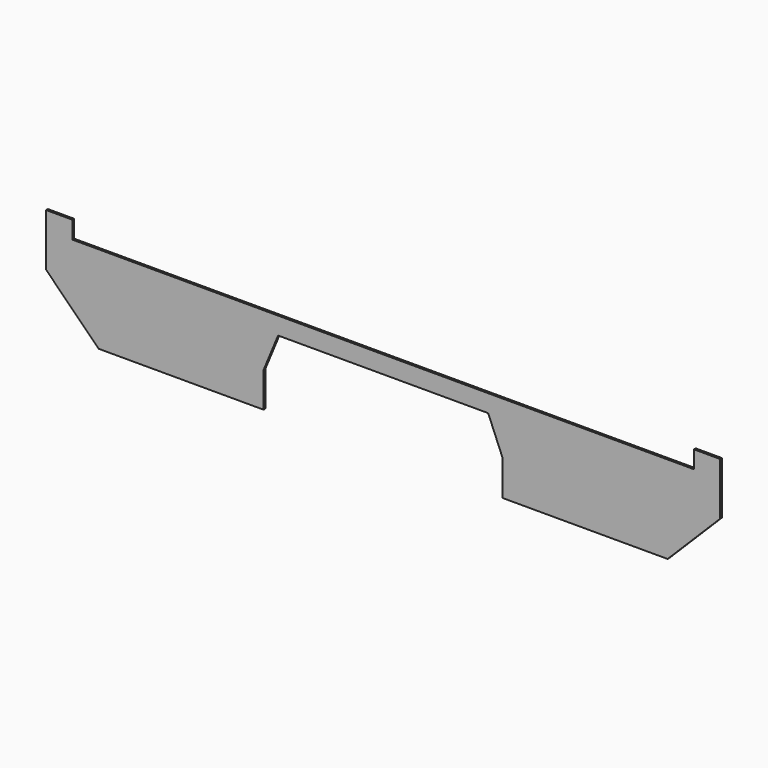
from build123d import *

# Parameters (mm, degrees)
F1_DEPTH = 6.35


with BuildPart() as f1:
    # F0 (on Front) → F1 (new body)
    with BuildSketch(Plane.XZ):
        Polygon((0, 50.8), (0, 101.6), (-901.7, 101.6), (-901.7, 152.4), (-977.9, 152.4), (-977.9, 0), (-825.5, -152.4), (-346.884098, -152.4), (-346.884098, -50.8), (-304.8, 50.8), align=None)
        Polygon((977.9, 0), (977.9, 152.4), (901.7, 152.4), (901.7, 101.6), (0, 101.6), (0, 50.8), (304.8, 50.8), (346.884098, -50.8), (346.884098, -152.4), (825.5, -152.4), align=None)
    extrude(amount=F1_DEPTH)


solid = f1.part
